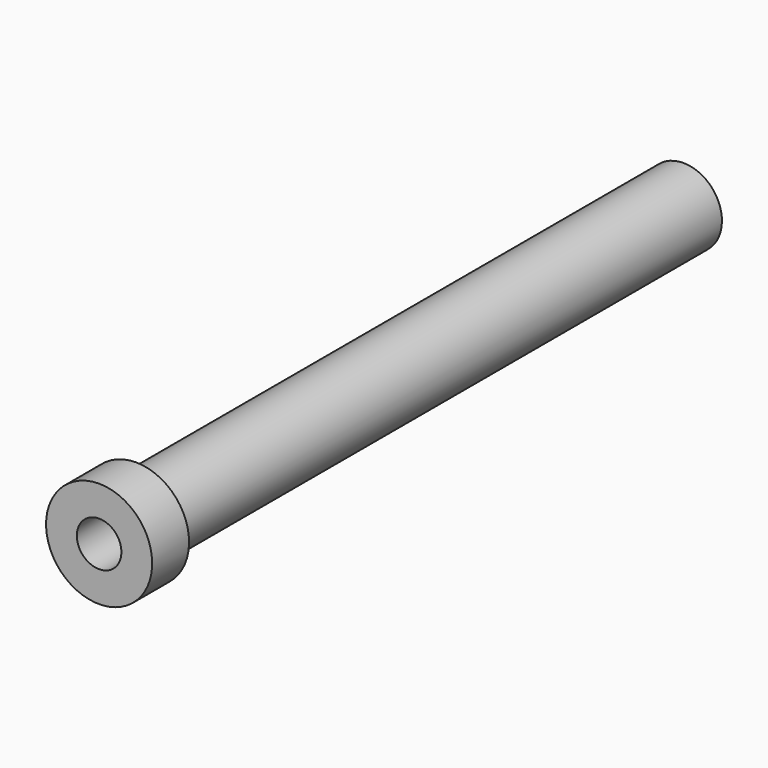
from build123d import *

# Parameters (mm, degrees)
F0_W = 16.934386
F0_H = 7


with BuildPart() as f1:
    # F0 (on Right) → F1 (revolve)
    with BuildSketch(Plane.YZ):
        Polygon((393.983351, 25), (-51.016649, 25), (-51.016649, 14.5), (353.983351, 14.5), (370.917737, 14.5), (393.983351, 14.5), align=None)
        with Locations((362.450544, 11)):
            Rectangle(F0_W, F0_H)
        Polygon((-51.016649, 34.5), (-81.016649, 34.5), (-81.016649, 14.5), (-51.016649, 14.5), (-51.016649, 25), align=None)
    revolve(axis=Axis((0, 107.150801, 0), (0, 1, 0)))


solid = f1.part
